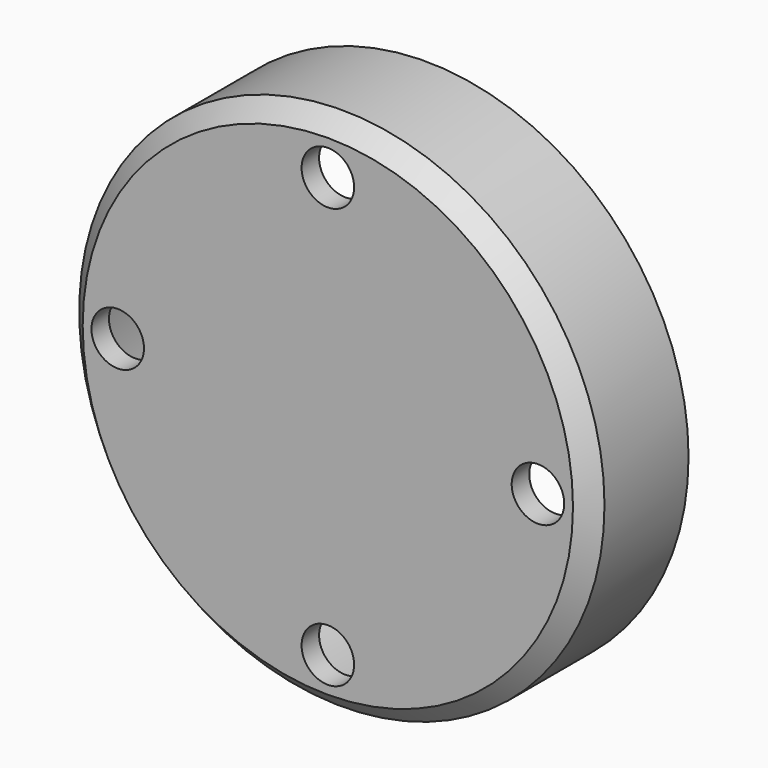
from build123d import *

# Parameters (mm, degrees)
F0_R     = 30
F1_DEPTH = 14
F2_T     = -2.5
F3_R     = 3
F4_DEPTH = 2.5
F5_SIZE  = 2


with BuildPart() as f1:
    # F0 (on Front) → F1 (new body)
    with BuildSketch(Plane.XZ):
        Circle(F0_R)
    extrude(amount=F1_DEPTH)

    # F2
    f2_openings = [f1.faces().sort_by_distance(p)[0] for p in [
        (0, 0, 0),
    ]]
    offset(amount=F2_T, openings=f2_openings)

    # F3 (on face) → F4 (cut, through all)
    with BuildSketch(Plane.XZ.offset(14)):
        with Locations((0, -24)):
            Circle(F3_R)
        with Locations((-24, 0)):
            Circle(F3_R)
        with Locations((24, 0)):
            Circle(F3_R)
        with Locations((0, 24)):
            Circle(F3_R)
    extrude(amount=-F4_DEPTH, mode=Mode.SUBTRACT)

    # F5
    f5_edges = [f1.edges().sort_by_distance(p)[0] for p in [
        (-30, -14, 0),
    ]]
    chamfer(f5_edges, length=F5_SIZE)


solid = f1.part
